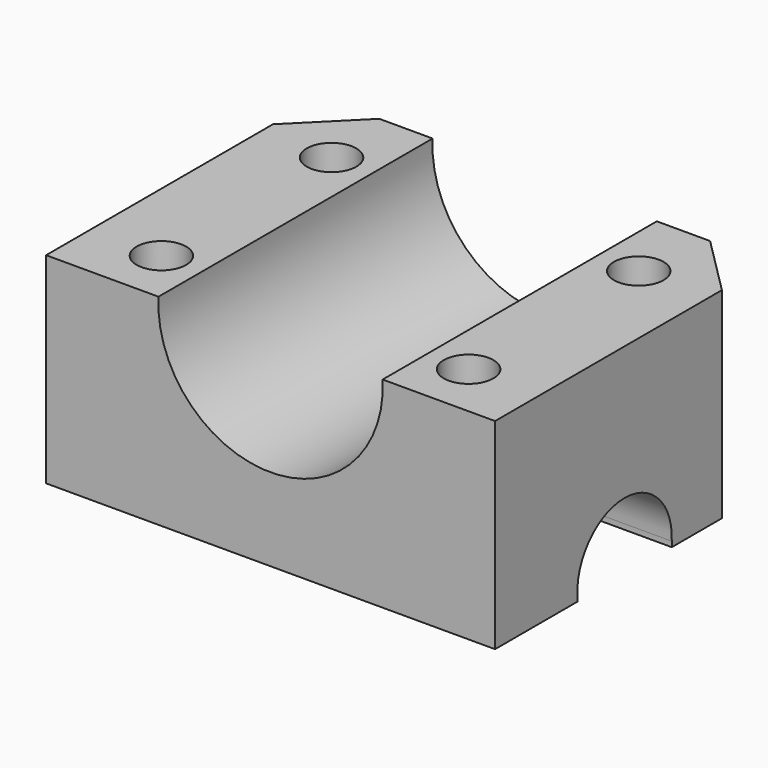
from build123d import *

# Parameters (mm, degrees)
F0_R     = 2.1
F1_DEPTH = 19
F2_R     = 9.5
F3_DEPTH = 29.001
F4_R     = 5
F5_DEPTH = 38.001
F6_W     = 74.916892
F6_H     = 3.990418
F7_DEPTH = 29.001
F8_R     = 5
F9_DEPTH = 38.001


with BuildPart() as f1:
    # F0 (on Top) → F1 (new body)
    with BuildSketch(Plane.XY):
        Polygon((14, 14.5), (-14, 14.5), (-19, 9.5), (-19, -14.5), (19, -14.5), (19, 9.5), align=None)
        with Locations((-13, -9.8)):
            Circle(F0_R, mode=Mode.SUBTRACT)
        with Locations((13, -9.8)):
            Circle(F0_R, mode=Mode.SUBTRACT)
        with Locations((-13, 8.2)):
            Circle(F0_R, mode=Mode.SUBTRACT)
        with Locations((13, 8.2)):
            Circle(F0_R, mode=Mode.SUBTRACT)
    extrude(amount=F1_DEPTH)

    # F2 (on face) → F3 (cut, through all)
    with BuildSketch(Plane.XZ.offset(14.5)):
        with Locations((0, 16.5)):
            Circle(F2_R)
    extrude(amount=-F3_DEPTH, mode=Mode.SUBTRACT)

    # F4 (on face) → F5 (cut, through all)
    with BuildSketch(Plane.YZ.offset(19)):
        with Locations((-0.8, 0.2)):
            Circle(F4_R)
    extrude(amount=-F5_DEPTH, mode=Mode.SUBTRACT)

    # F6 (on face) → F7 (cut, through all)
    with BuildSketch(Plane.XZ.offset(14.5)):
        with Locations((0.39847, 18.995209)):
            Rectangle(F6_W, F6_H)
    extrude(amount=-F7_DEPTH, mode=Mode.SUBTRACT)

    # F8 (on face) → F9 (cut, through all)
    with BuildSketch(Plane(origin=(-19, 0, 0), x_dir=(0, -1, 0), z_dir=(-1, 0, 0))):
        with Locations((0.8, 0.7)):
            Circle(F8_R)
    extrude(amount=-F9_DEPTH, mode=Mode.SUBTRACT)


solid = f1.part
